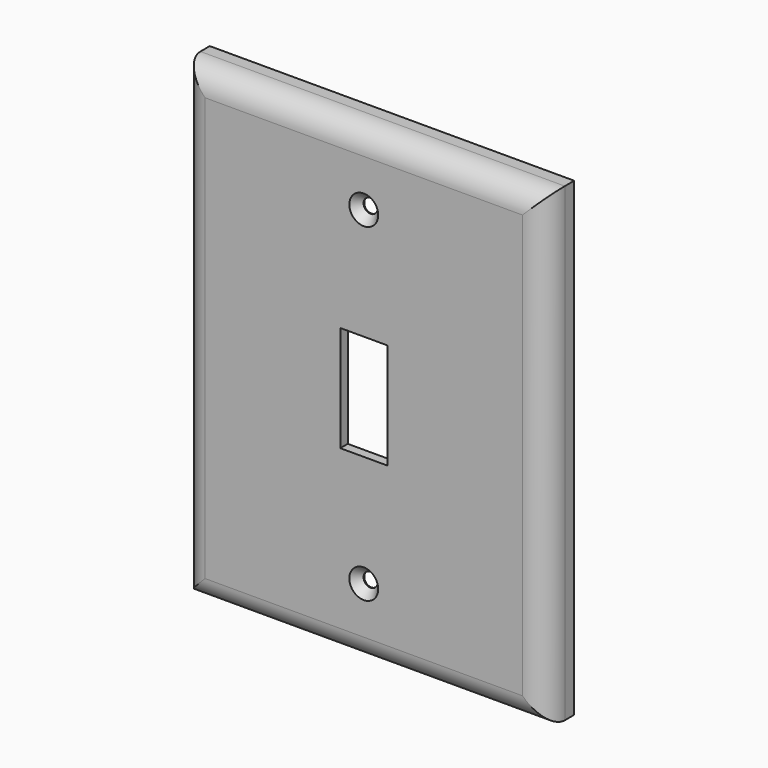
from build123d import *

# Parameters (mm, degrees)
F0_W           = 98.425
F0_H           = 127
F1_DEPTH       = 9.525
F2_R           = 6.35
F3_T           = -2.54
F4_W           = 12.7
F4_H           = 28.575
F5_DEPTH       = 9.526
F6_D           = 3.7973
F6_DEPTH       = 12.7
F6_CSINK_D     = 7.7978
F6_CSINK_ANGLE = 82
F6_TIP         = 1.1408240143


with BuildPart() as f1:
    # F0 (on Front) → F1 (new body)
    with BuildSketch(Plane.XZ):
        Rectangle(F0_W, F0_H)
    extrude(amount=F1_DEPTH)

    # F2
    f2_edges = [f1.edges().sort_by_distance(p)[0] for p in [
        (49.2125, -9.525, 0),
        (0, -9.525, 63.5),
        (-49.2125, -9.525, 0),
        (0, -9.525, -63.5),
    ]]
    fillet(f2_edges, radius=F2_R)

    # F3
    f3_openings = [f1.faces().sort_by_distance(p)[0] for p in [
        (0, 0, 0),
    ]]
    offset(amount=F3_T, openings=f3_openings)

    # F4 (on face) → F5 (cut, through all)
    with BuildSketch(Plane.XZ.offset(9.525)):
        Rectangle(F4_W, F4_H)
    extrude(amount=-F5_DEPTH, mode=Mode.SUBTRACT)

    # F6
    with Locations(Plane.XZ.offset(9.525)):
        with Locations((0, 44.45), (0, -44.45)):
            CounterSinkHole(F6_D / 2, F6_CSINK_D / 2, depth=F6_DEPTH, counter_sink_angle=F6_CSINK_ANGLE)
            with Locations((0, 0, -(F6_DEPTH + F6_TIP / 2))):  # 118° drill point
                Cone(0, F6_D / 2, F6_TIP, mode=Mode.SUBTRACT)


solid = f1.part
